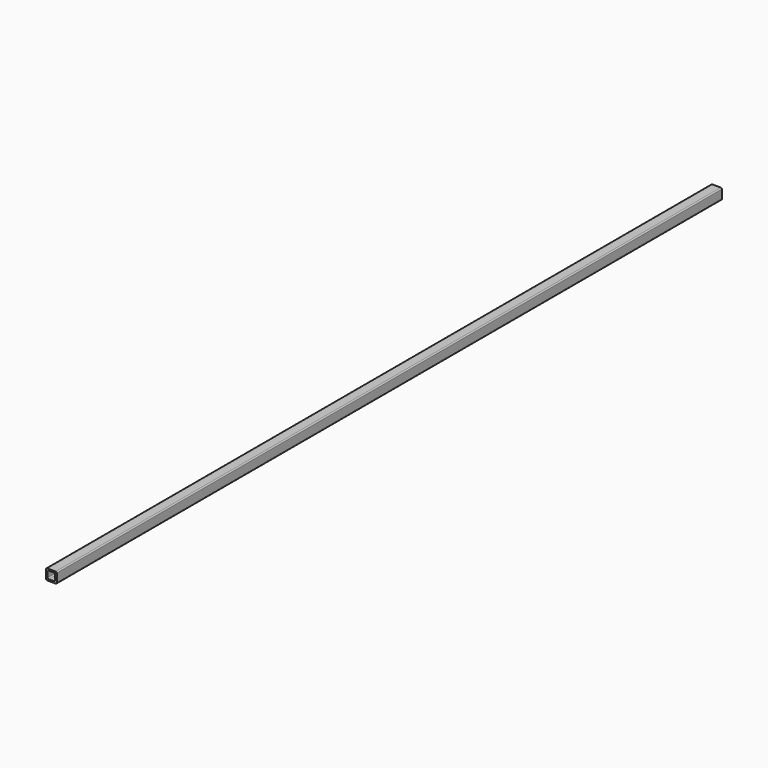
from build123d import *

# Parameters (mm, degrees)
F1_DEPTH = 2470.15


with BuildPart() as f1:
    # F0 (on Front) → F1 (new body)
    with BuildSketch(Plane.XZ):
        with BuildLine():
            ThreePointArc((15.875, 12.7), (14.945064, 14.945064), (12.7, 15.875))
            Line((12.7, 15.875), (-12.7, 15.875))
            ThreePointArc((-12.7, 15.875), (-14.945064, 14.945064), (-15.875, 12.7))
            Line((-15.875, 12.7), (-15.875, -12.7))
            ThreePointArc((-15.875, -12.7), (-14.945064, -14.945064), (-12.7, -15.875))
            Line((-12.7, -15.875), (12.7, -15.875))
            ThreePointArc((12.7, -15.875), (14.945064, -14.945064), (15.875, -12.7))
            Line((15.875, -12.7), (15.875, 12.7))
        make_face()
        with BuildLine():
            Line((-7.9375, 11.1125), (7.9375, 11.1125))
            ThreePointArc((7.9375, 11.1125), (10.182564, 10.182564), (11.1125, 7.9375))
            Line((11.1125, 7.9375), (11.1125, -7.9375))
            ThreePointArc((11.1125, -7.9375), (10.182564, -10.182564), (7.9375, -11.1125))
            Line((7.9375, -11.1125), (-7.9375, -11.1125))
            ThreePointArc((-7.9375, -11.1125), (-10.182564, -10.182564), (-11.1125, -7.9375))
            Line((-11.1125, -7.9375), (-11.1125, 7.9375))
            ThreePointArc((-11.1125, 7.9375), (-10.182564, 10.182564), (-7.9375, 11.1125))
        make_face(mode=Mode.SUBTRACT)
    extrude(amount=-F1_DEPTH)


solid = f1.part
